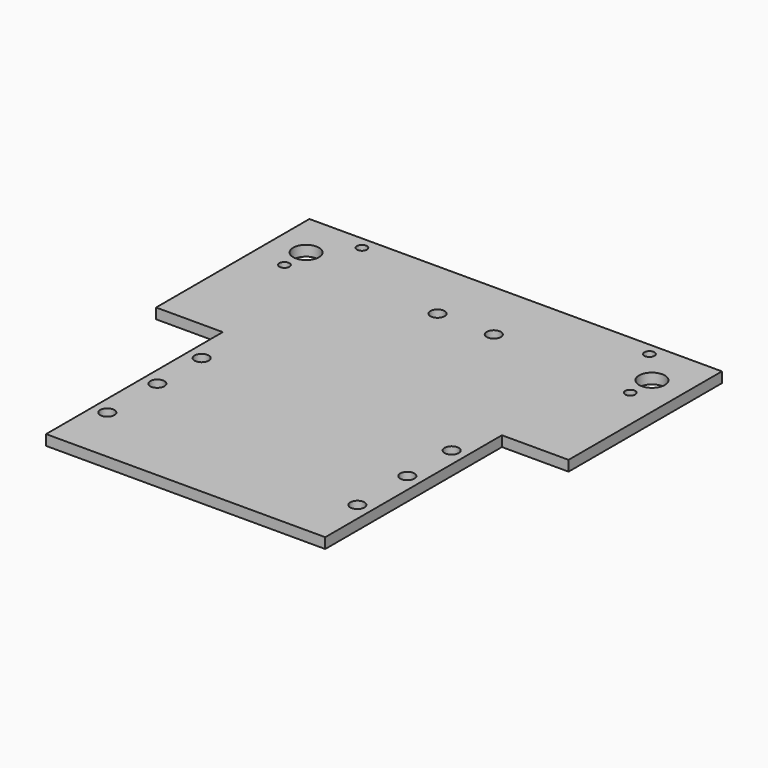
from build123d import *

# Parameters (mm, degrees)
F0_R     = 1.7
F0_R_2   = 1.2
F0_R_3   = 3.1
F1_DEPTH = 2.5


with BuildPart() as f1:
    # F0 (on Top) → F1 (new body)
    with BuildSketch(Plane.XY):
        Polygon((49.5, 49), (0, 49), (-49.5, 49), (-49.5, 3), (-33.5, 3), (-33.5, -50), (0, -50), (33.5, -50), (33.5, 3), (49.5, 3), align=None)
        with Locations((-30, -36)):
            Circle(F0_R, mode=Mode.SUBTRACT)
        with Locations((-30, -21)):
            Circle(F0_R, mode=Mode.SUBTRACT)
        with Locations((-30, -7.7)):
            Circle(F0_R, mode=Mode.SUBTRACT)
        with Locations((30, -36)):
            Circle(F0_R, mode=Mode.SUBTRACT)
        with Locations((30, -21)):
            Circle(F0_R, mode=Mode.SUBTRACT)
        with Locations((30, -7.7)):
            Circle(F0_R, mode=Mode.SUBTRACT)
        with Locations((-41.5, 31.5)):
            Circle(F0_R_2, mode=Mode.SUBTRACT)
        with Locations((-41.5, 38)):
            Circle(F0_R_3, mode=Mode.SUBTRACT)
        with Locations((-34.5, 46)):
            Circle(F0_R_2, mode=Mode.SUBTRACT)
        with Locations((-6.75, 34)):
            Circle(F0_R, mode=Mode.SUBTRACT)
        with Locations((6.75, 34)):
            Circle(F0_R, mode=Mode.SUBTRACT)
        with Locations((41.5, 31.5)):
            Circle(F0_R_2, mode=Mode.SUBTRACT)
        with Locations((34.5, 46)):
            Circle(F0_R_2, mode=Mode.SUBTRACT)
        with Locations((41.5, 38)):
            Circle(F0_R_3, mode=Mode.SUBTRACT)
    extrude(amount=F1_DEPTH)


solid = f1.part
